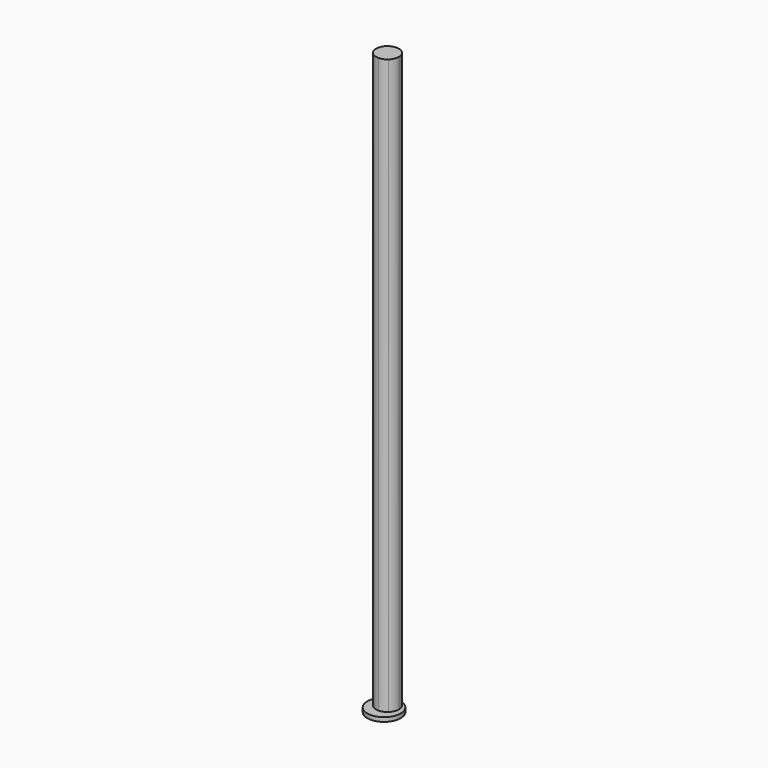
from build123d import *

# Parameters (mm, degrees)
F0_R     = 50.8
F1_DEPTH = 12.7
F3_DEPTH = 1752.6


with BuildPart() as f1:
    # F0 (on Top) → F1 (new body)
    with BuildSketch(Plane.XY):
        Circle(F0_R)
    extrude(amount=F1_DEPTH)

    # F2 (on face) → F3 (join)
    with BuildSketch(Plane.XY.offset(12.7)):
        with BuildLine():
            ThreePointArc((-0.0031752568, -20.9190722188), (-0.0312761161, -21.0825451789), (-0.06148119, -21.245642452))
            ThreePointArc((-0.06148119, -21.245642452), (-0.0031888656, -21.2456971257), (0.055103468, -21.2456532358))
            ThreePointArc((0.055103468, -21.2456532358), (0.024912457, -21.0825503951), (-0.0031752568, -20.9190722188))
        make_face()
        with BuildLine():
            ThreePointArc((23.5776117563, -11.9227459757), (31.6337017768, -0.4762724508), (34.4751987068, 13.2295014337))
            ThreePointArc((34.4751987068, 13.2295014337), (-13.7086998604, 44.861935327), (-23.5729583189, -11.92710728))
            ThreePointArc((-23.5729583189, -11.92710728), (-10.1369376903, -6.2068210975), (-0.0031752568, -16.7213435918))
            ThreePointArc((-0.0031752568, -16.7213435918), (10.1345978143, -6.2009032292), (23.5776117563, -11.9227459757))
        make_face()
        with BuildLine():
            ThreePointArc((-0.0031752568, -16.7213435918), (-10.1369376903, -6.2068210975), (-23.5729583189, -11.92710728))
            ThreePointArc((-23.5729583189, -11.92710728), (-12.7025767923, -18.8202079053), (-0.06148119, -21.245642452))
            ThreePointArc((-0.06148119, -21.245642452), (-0.0312761161, -21.0825451789), (-0.0031752568, -20.9190722188))
            ThreePointArc((-0.0031752568, -20.9190722188), (-0.1753642908, -18.8202079053), (-0.0031752568, -16.7213435918))
        make_face()
        with BuildLine():
            ThreePointArc((0.055103468, -21.2456532358), (12.7025767923, -18.8202079053), (23.5776117563, -11.9227459757))
            ThreePointArc((23.5776117563, -11.9227459757), (10.1345978143, -6.2009032292), (-0.0031752568, -16.7213435918))
            ThreePointArc((-0.0031752568, -16.7213435918), (0.1259579382, -17.7672466366), (0.1690987306, -18.8202079053))
            ThreePointArc((0.1690987306, -18.8202079053), (0.1259579382, -19.873169174), (-0.0031752568, -20.9190722188))
            ThreePointArc((-0.0031752568, -20.9190722188), (0.024912457, -21.0825503951), (0.055103468, -21.2456532358))
        make_face()
    extrude(amount=F3_DEPTH)


solid = f1.part
